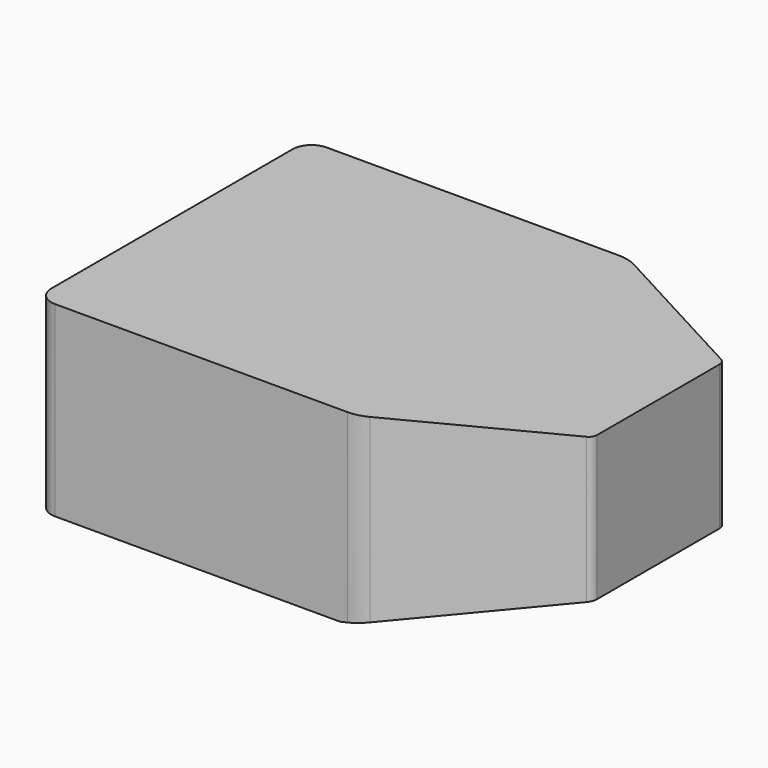
from build123d import *

# Parameters (mm, degrees)
BOX_W               = 29
BOX_H               = 73
BOX_DEPTH           = 10
BOX_PLACEMENT_ANGLE = 13
PAD_DEPTH           = 27.6


with BuildPart() as cube:
    # Box → Box (new body)
    with BuildSketch(Plane.XY):
        with Locations((14.5, 36.5)):
            Rectangle(BOX_W, BOX_H)
    extrude(amount=BOX_DEPTH)


with BuildPart() as cube_1:
    # Box placement: moved
    add(cube.part.moved(Location((46, -5, -10))).rotate(Axis((46, -5, -10), (0, -1, 0)), BOX_PLACEMENT_ANGLE))


with BuildPart() as cutted_flask:
    # Sketch → Pad (new body)
    with BuildSketch(Plane.XY):
        with BuildLine():
            ThreePointArc((2.776495, 50.1), (0.813217, 49.286783), (0, 47.323505))
            Line((0, 2.776495), (0, 47.323505))
            ThreePointArc((0, 2.776495), (0.813217, 0.813217), (2.776495, 0))
            Line((45.947206, 0), (2.776495, 0))
            ThreePointArc((45.947206, 0), (47.381198, 0.172613), (48.733265, 0.680592))
            Line((71.324311, 12.41834), (48.733265, 0.680592))
            ThreePointArc((71.324311, 12.41834), (71.817845, 12.880043), (72, 13.530861))
            Line((72, 25.05), (72, 13.530861))
            Line((72, 25.05), (72, 36.102443))
            ThreePointArc((72, 36.102443), (71.822776, 36.745073), (71.341206, 37.206021))
            Line((71.341206, 37.206021), (48.765787, 49.376307))
            ThreePointArc((48.765787, 49.376307), (47.376999, 49.916284), (45.898298, 50.1))
            Line((2.776495, 50.1), (45.898298, 50.1))
        make_face()
    extrude(amount=PAD_DEPTH)

    # Cut: cut Cube
    add(cube_1.part, mode=Mode.SUBTRACT)


solid = cutted_flask.part
